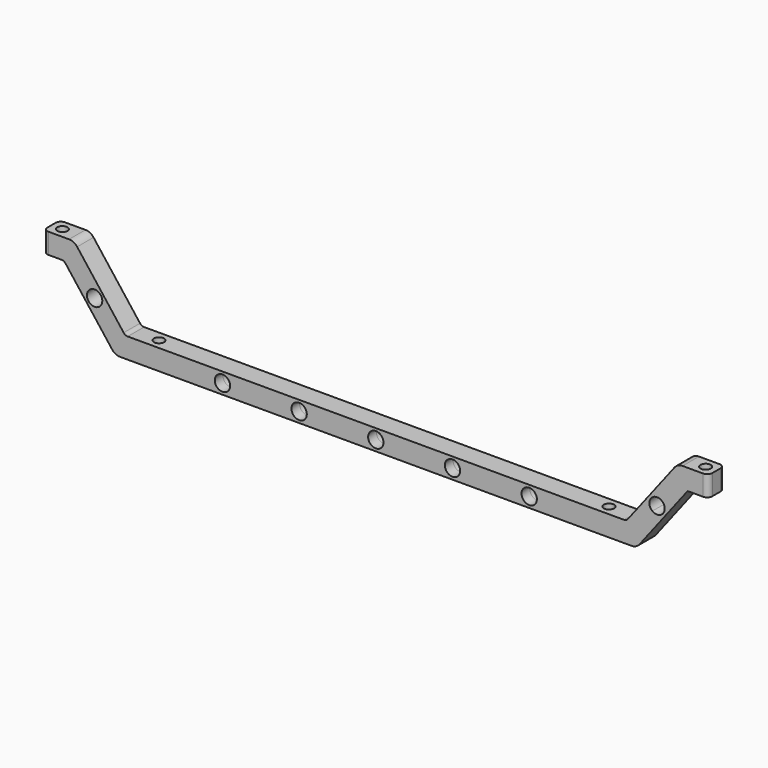
from build123d import *

# Parameters (mm, degrees)
F0_R     = 7.5
F1_DEPTH = 10
F2_R     = 5
F5_D     = 10


with BuildPart() as f1:
    # F0 (on Front) → F1 (new body, symmetric)
    with BuildSketch(Plane.XZ):
        with BuildLine():
            Line((0, 10), (-245.075985, 10))
            Line((-245.075985, 10), (-242.07376, 6.097108))
            ThreePointArc((-242.07376, 6.097108), (-241.028627, -4.417518), (-250, -10))
            Line((-250, -10), (0, -10))
            Line((0, -10), (250, -10))
            ThreePointArc((250, -10), (241.028627, -4.417518), (242.07376, 6.097108))
            Line((242.07376, 6.097108), (245.075985, 10))
            Line((245.075985, 10), (0, 10))
        make_face()
        with Locations((-150, 0)):
            Circle(F0_R, mode=Mode.SUBTRACT)
        with BuildLine():
            ThreePointArc((-82.5, 0), (-75, 7.5), (-67.5, 0))
            ThreePointArc((-67.5, 0), (-75, -7.5), (-82.5, 0))
        make_face(mode=Mode.SUBTRACT)
        with BuildLine():
            ThreePointArc((7.5, 0), (0, -7.5), (-7.5, 0))
            ThreePointArc((-7.5, 0), (0, 7.5), (7.5, 0))
        make_face(mode=Mode.SUBTRACT)
        with BuildLine():
            ThreePointArc((82.5, 0), (75, -7.5), (67.5, 0))
            ThreePointArc((67.5, 0), (75, 7.5), (82.5, 0))
        make_face(mode=Mode.SUBTRACT)
        with BuildLine():
            ThreePointArc((157.5, 0), (150, -7.5), (142.5, 0))
            ThreePointArc((142.5, 0), (150, 7.5), (157.5, 0))
        make_face(mode=Mode.SUBTRACT)
        with BuildLine():
            ThreePointArc((-300, 75), (-308.971373, 69.417518), (-307.92624, 58.902892))
            Line((-307.92624, 58.902892), (-304.924015, 55))
            Line((-304.924015, 55), (-257.92624, -6.097108))
            ThreePointArc((-257.92624, -6.097108), (-254.417518, -8.971373), (-250, -10))
            ThreePointArc((-250, -10), (-241.028627, -4.417518), (-242.07376, 6.097108))
            Line((-242.07376, 6.097108), (-245.075985, 10))
            Line((-245.075985, 10), (-292.07376, 71.097108))
            ThreePointArc((-292.07376, 71.097108), (-295.582482, 73.971373), (-300, 75))
        make_face()
        with BuildLine():
            ThreePointArc((-270.427169, 26.55532), (-280.94468, 27.927169), (-279.572831, 38.44468))
            ThreePointArc((-279.572831, 38.44468), (-271.686862, 39.22853), (-267.5, 32.5))
            ThreePointArc((-267.5, 32.5), (-268.27147, 29.186862), (-270.427169, 26.55532))
        make_face(mode=Mode.SUBTRACT)
        with BuildLine():
            Line((-304.924015, 55), (-307.92624, 58.902892))
            ThreePointArc((-307.92624, 58.902892), (-308.971373, 69.417518), (-300, 75))
            Line((-300, 75), (-320, 75))
            Line((-320, 75), (-325.074017, 75))
            Line((-325.074017, 75), (-325.074017, 55))
            Line((-325.074017, 55), (-320, 55))
            Line((-320, 55), (-319.222152, 55))
            Line((-319.222152, 55), (-304.924015, 55))
        make_face()
        with BuildLine():
            Line((292.07376, 71.097108), (245.075985, 10))
            Line((245.075985, 10), (242.07376, 6.097108))
            ThreePointArc((242.07376, 6.097108), (241.028627, -4.417518), (250, -10))
            ThreePointArc((250, -10), (254.417518, -8.971373), (257.92624, -6.097108))
            Line((257.92624, -6.097108), (304.924015, 55))
            Line((304.924015, 55), (307.92624, 58.902892))
            ThreePointArc((307.92624, 58.902892), (308.971373, 69.417518), (300, 75))
            ThreePointArc((300, 75), (295.582482, 73.971373), (292.07376, 71.097108))
        make_face()
        with BuildLine():
            ThreePointArc((279.572831, 38.44468), (281.72853, 35.813138), (282.5, 32.5))
            ThreePointArc((282.5, 32.5), (278.313138, 25.77147), (270.427169, 26.55532))
            ThreePointArc((270.427169, 26.55532), (269.05532, 37.072831), (279.572831, 38.44468))
        make_face(mode=Mode.SUBTRACT)
        with BuildLine():
            Line((320, 75), (300, 75))
            ThreePointArc((300, 75), (308.971373, 69.417518), (307.92624, 58.902892))
            Line((307.92624, 58.902892), (304.924015, 55))
            Line((304.924015, 55), (319.222152, 55))
            Line((319.222152, 55), (320, 55))
            Line((320, 55), (325.074017, 55))
            Line((325.074017, 55), (325.074017, 75))
            Line((325.074017, 75), (320, 75))
        make_face()
    extrude(amount=F1_DEPTH, both=True)

    # F2
    f2_edges = [f1.edges().sort_by_distance(p)[0] for p in [
        (-245.075985, 0, 10),
        (245.075985, 0, 10),
        (-304.924015, 0, 55),
        (-325.074017, 10, 65),
        (325.074017, -10, 65),
        (325.074017, 10, 65),
        (-325.074017, -10, 65),
    ]]
    fillet(f2_edges, radius=F2_R)

    # F5 (through all)
    with Locations(Plane(origin=(0, 0, -10), x_dir=(1, 0, 0), z_dir=(0, 0, -1))):
        with Locations((-220, 0), (220, 0), (314.522654, 0), (-314.522654, 0)):
            Hole(F5_D / 2)


solid = f1.part
